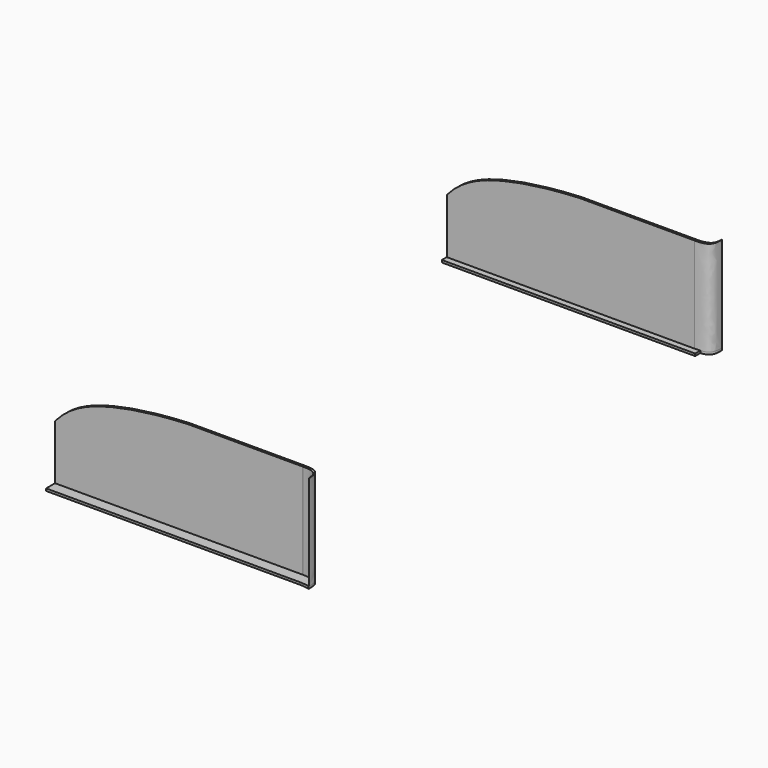
from build123d import *

# Parameters (mm, degrees)
F2_DEPTH  = 6
F5_DEPTH  = 250
F2_FACE_W = 6
F2_FACE_H = 250
F5_FACE_W = 5.9654505784
F5_FACE_H = 250
F8_DEPTH  = 6


with BuildPart() as f2:
    # F1 (on offset) → F2 (new body)
    with BuildSketch(Plane.XZ.offset(640)):
        with BuildLine():
            Line((-1545, 48), (-895, 48))
            Line((-895, 48), (-895, 298))
            Line((-895, 298), (-1195, 298))
            add(Edge.make_bspline(
                [(-1545, 192), (-1521.7571000476, 218.6039773518), (-1452.732245002, 270.2165911827), (-1295.9794931608, 293.4913064686), (-1195, 298)],
                knots=[0, 0, 0, 0, 0.3938910162, 1, 1, 1, 1], degree=3))
            Line((-1545, 192), (-1545, 48))
        make_face()
    extrude(amount=F2_DEPTH)



with BuildPart() as f5:
    # F4 (on offset) → F5 (new body)
    with BuildSketch(Plane(origin=(0, 0, 48), x_dir=(1, 0, 0), z_dir=(0, 0, -1))):
        with BuildLine():
            Line((-894.1101431847, 645.8818018436), (-894.0272927284, 639.9169266224))
            add(Edge.make_bspline(
                [(-894.0272927284, 639.9169266224), (-879.1374854147, 639.9626126384), (-857.6182809665, 643.1010233585), (-851.8514054669, 662.1984672197), (-852.9979586601, 678.2196462154)],
                knots=[0, 0, 0, 0, 0.5048001428, 1, 1, 1, 1], degree=3))
            add(Edge.make_bspline(
                [(-894.1101431847, 645.8818018436), (-879.759816901, 646.2098372885), (-864.4383073165, 648.6440332993), (-853.5986789601, 659.4021844485), (-852.9979586601, 678.2196462154)],
                knots=[0, 0, 0, 0, 0.4931673704, 1, 1, 1, 1], degree=3))
        make_face()
    extrude(amount=-F5_DEPTH)


with BuildPart() as f2_1:
    add(f2.part)

    add(f5.part)  # F6 merges F5
    # F2_face (on face) → F6 section 0
    with BuildSketch(Plane(origin=(-895, -643, 173), x_dir=(0, 1, 0), z_dir=(1, 0, 0))):
        Rectangle(F2_FACE_W, F2_FACE_H)
    # F5_face (on face) → F6 section 1
    with BuildSketch(Plane(origin=(-894.0687179565, -642.899364233, 173), x_dir=(-0.013888382, -0.9999035518, 0), z_dir=(-0.9999035518, 0.013888382, 0))):
        Rectangle(F5_FACE_W, F5_FACE_H)
    loft()

    # F7 (on offset) → F8 (join)
    with BuildSketch(Plane(origin=(0, 0, 48), x_dir=(1, 0, 0), z_dir=(0, 0, -1))):
        with BuildLine():
            Line((-1545.1399683952, 675.4224896431), (-1545.1399683952, 623.8404810429))
            Line((-1545.1399683952, 623.8404810429), (-879.85932827, 623.8404810429))
            Line((-879.85932827, 623.8404810429), (-879.85932827, 640.7720148563))
            add(Edge.make_bspline(
                [(-879.85932827, 640.7720148563), (-873.7173506265, 641.4606158564), (-861.5878448777, 644.1360934873), (-852.7061162653, 658.5082899728), (-852.7703283891, 673.17682316), (-853.0581593513, 678.2253980637)],
                knots=[0, 0, 0, 0, 0.3356585098, 0.6521125175, 1, 1, 1, 1], degree=3))
            add(Edge.make_bspline(
                [(-879.85932827, 675.4224896431), (-873.9006117868, 675.6584678832), (-863.306645405, 676.0780121844), (-856.1774461923, 677.571807623), (-853.0581593513, 678.2253980637)],
                knots=[0, 0, 0, 0, 0.5624632237, 1, 1, 1, 1], degree=3))
            Line((-879.85932827, 675.4224896431), (-1545.1399683952, 675.4224896431))
        make_face()
    extrude(amount=F8_DEPTH)


with BuildPart() as f9_1:
    # F9: instance of F2
    add(f2_1.part.mirror(Plane.XZ))


solid = Compound([f2_1.part, f9_1.part])
